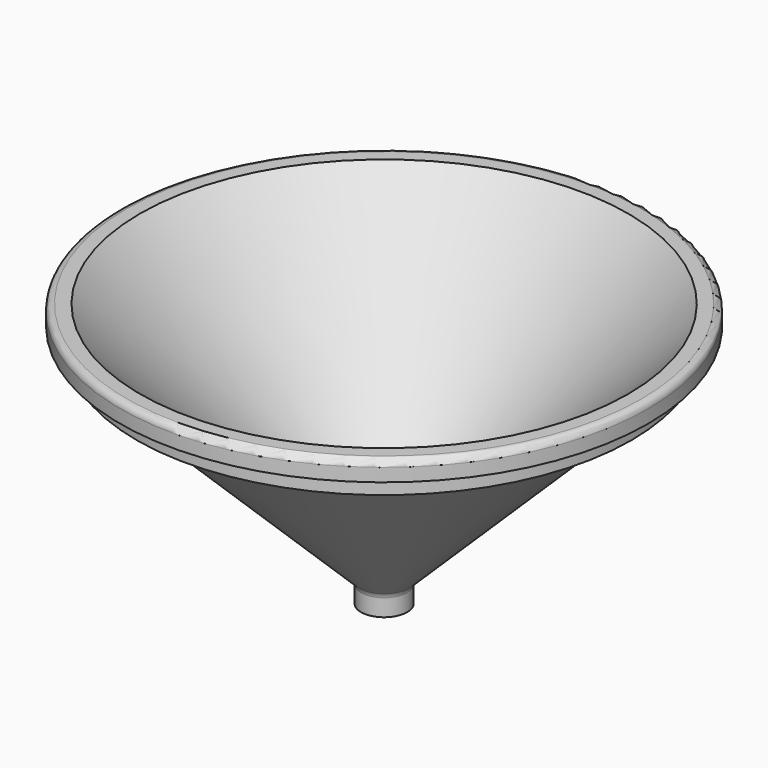
from build123d import *

# Parameters (mm, degrees)
FILLET009_R = 1
FILLET010_R = 1
FILLET011_R = 1
FILLET012_R = 1


with BuildPart() as part:
    # Sketch044 → Revolution (revolve)
    with BuildSketch(Plane.XZ):
        Polygon((40, 61), (40, 58), (37.5, 58), (37.5, 55), (35, 55), (3.5, 24), (3.5, 21), (1.5, 21), (1.5, 25.5), (37, 61), align=None)
    revolve(axis=Axis((0, 0, 0), (0, 0, 1)))

    # Fillet009
    fillet009_edges = [part.edges().sort_by_distance(p)[0] for p in [
        (-1.5, 0, 25.5),
    ]]
    fillet(fillet009_edges, radius=FILLET009_R)

    # Fillet010
    fillet010_edges = [part.edges().sort_by_distance(p)[0] for p in [
        (-40, 0, 61),
    ]]
    fillet(fillet010_edges, radius=FILLET010_R)

    # Fillet011
    fillet011_edges = [part.edges().sort_by_distance(p)[0] for p in [
        (-3.5, 0, 24),
    ]]
    fillet(fillet011_edges, radius=FILLET011_R)

    # Fillet012
    fillet012_edges = [part.edges().sort_by_distance(p)[0] for p in [
        (-35, 0, 55),
    ]]
    fillet(fillet012_edges, radius=FILLET012_R)


with BuildPart() as part_1:
    # Body006 placement: moved
    add(part.part.moved(Location((0, 0, 1))))


solid = part_1.part
